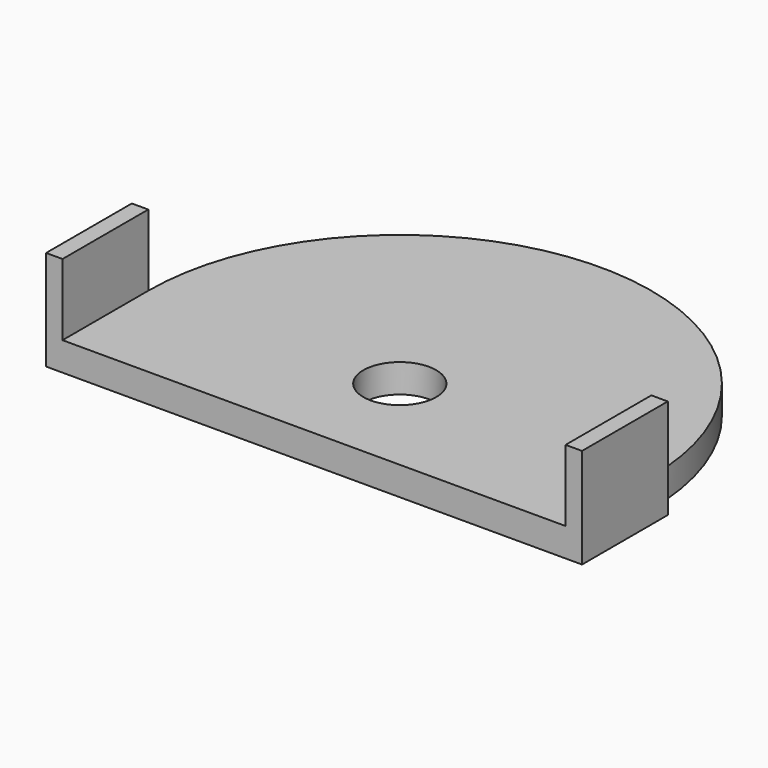
from build123d import *

# Parameters (mm, degrees)
F0_R     = 6.477
F1_DEPTH = 5.08
F2_W     = 2.921
F2_H     = 19.05
F3_DEPTH = 12.7


with BuildPart() as f1:
    # F0 (on Top) → F1 (new body)
    with BuildSketch(Plane.XY):
        with BuildLine():
            Line((47.625, 0), (44.704, 0))
            ThreePointArc((44.704, 0), (0, 44.704), (-44.704, 0))
            Line((-44.704, 0), (-47.625, 0))
            Line((-47.625, 0), (-47.625, -19.05))
            Line((-47.625, -19.05), (47.625, -19.05))
            Line((47.625, -19.05), (47.625, 0))
        make_face()
        Circle(F0_R, mode=Mode.SUBTRACT)
    extrude(amount=F1_DEPTH)

    # F2 (on face) → F3 (join)
    with BuildSketch(Plane.XY.offset(5.08)):
        with Locations((-46.1645, -9.525)):
            Rectangle(F2_W, F2_H)
        with Locations((46.1645, -9.525)):
            Rectangle(F2_W, F2_H)
    extrude(amount=F3_DEPTH)


solid = f1.part
